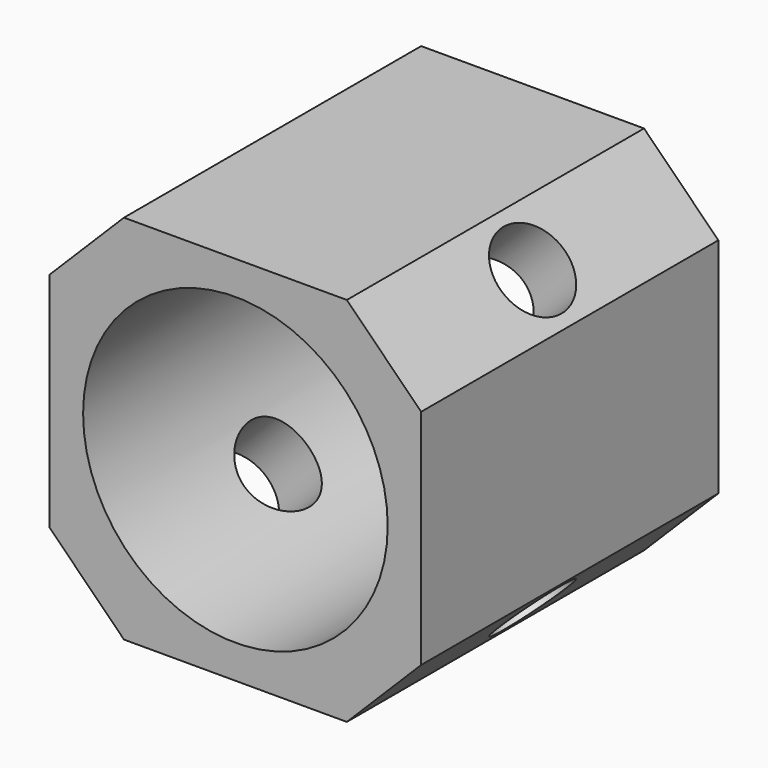
from build123d import *

# Parameters (mm, degrees)
F0_W     = 25
F0_H     = 25
F0_R     = 10.25
F1_DEPTH = 25
F2_SIZE  = 5
F3_R     = 2.75
F4_DEPTH = 31.820805
F5_R     = 2.75
F6_DEPTH = 31.820805


with BuildPart() as f1:
    # F0 (on Front) → F1 (new body)
    with BuildSketch(Plane.XZ):
        Rectangle(F0_W, F0_H)
        Circle(F0_R, mode=Mode.SUBTRACT)
    extrude(amount=F1_DEPTH)

    # F2
    f2_edges = [f1.edges().sort_by_distance(p)[0] for p in [
        (-12.5, -12.5, -12.5),
        (12.5, -12.5, -12.5),
        (12.5, -12.5, 12.5),
        (-12.5, -12.5, 12.5),
    ]]
    chamfer(f2_edges, length=F2_SIZE)

    # F3 (on face) → F4 (cut, through all)
    with BuildSketch(Plane(origin=(10, 0, 10), x_dir=(0, 1, 0), z_dir=(0.707107, 0, 0.707107))):
        with Locations((-12.5, 0)):
            Circle(F3_R)
    extrude(amount=-F4_DEPTH, mode=Mode.SUBTRACT)

    # F5 (on face) → F6 (cut, through all)
    with BuildSketch(Plane(origin=(10, 0, -10), x_dir=(0, 1, 0), z_dir=(0.707107, 0, -0.707107))):
        with Locations((-12.5, 0)):
            Circle(F5_R)
    extrude(amount=-F6_DEPTH, mode=Mode.SUBTRACT)


solid = f1.part
